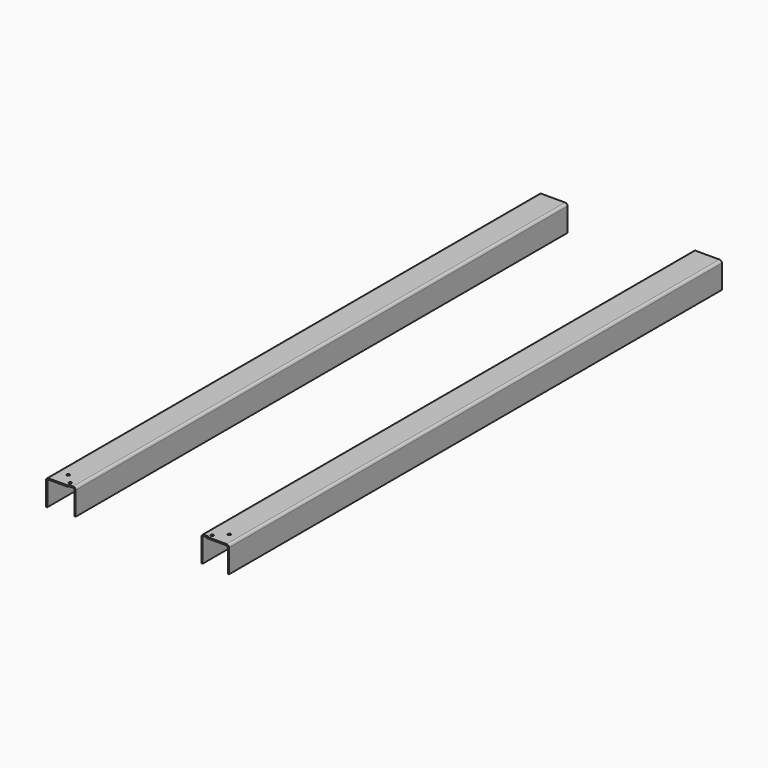
from build123d import *

# Parameters (mm, degrees)
F1_DEPTH = 1996
F3_W     = 4
F3_H     = 87
F4_DEPTH = 21.409
F6_DEPTH = 4


with BuildPart() as f1:
    # F0 (on Front) → F1 (new body)
    with BuildSketch(Plane.XZ):
        with BuildLine():
            Line((-46.25, 34), (-46.25, -42))
            Line((-46.25, -42), (-42.25, -42))
            Line((-42.25, -42), (-42.25, 34))
            ThreePointArc((-42.25, 34), (-41.078427, 36.828427), (-38.25, 38))
            Line((-38.25, 38), (38.25, 38))
            ThreePointArc((38.25, 38), (41.078427, 36.828427), (42.25, 34))
            Line((42.25, 34), (42.25, -42))
            Line((42.25, -42), (46.25, -42))
            Line((46.25, -42), (46.25, 34))
            ThreePointArc((46.25, 34), (43.906854, 39.656854), (38.25, 42))
            Line((38.25, 42), (-38.25, 42))
            ThreePointArc((-38.25, 42), (-43.906854, 39.656854), (-46.25, 34))
        make_face()
    extrude(amount=-F1_DEPTH)

    # F3 (on face) → F4 (cut)
    with BuildSketch(Plane(origin=(-46.25, 0, 0), x_dir=(0, -1, 0), z_dir=(-1, 0, 0))):
        with Locations((-2, 0.370724)):
            Rectangle(F3_W, F3_H)
    extrude(amount=-F4_DEPTH, mode=Mode.SUBTRACT)

    # F5 (on face) → F6 (cut)
    with BuildSketch(Plane(origin=(0, 0, 38), x_dir=(1, 0, 0), z_dir=(0, 0, -1))):
        with BuildLine():
            ThreePointArc((15.383453, -45.5), (10.883453, -41), (6.383453, -45.5))
            ThreePointArc((6.383453, -45.5), (10.883453, -50), (15.383453, -45.5))
        make_face()
        with BuildLine():
            Line((-20.116547, -14.5), (-20.116547, -10))
            ThreePointArc((-20.116547, -10), (-24.616547, -14.5), (-20.116547, -19))
            Line((-20.116547, -19), (-20.116547, -14.5))
        make_face()
        with BuildLine():
            ThreePointArc((-15.616547, -14.5), (-16.934566, -11.318019), (-20.116547, -10))
            Line((-20.116547, -10), (-20.116547, -14.5))
            Line((-20.116547, -14.5), (-20.116547, -19))
            ThreePointArc((-20.116547, -19), (-16.934566, -17.681981), (-15.616547, -14.5))
        make_face()
    extrude(amount=-F6_DEPTH, mode=Mode.SUBTRACT)


with BuildPart() as f8_1:
    # F8: instance of F1
    add(f1.part.mirror(Plane.YZ.offset(-250)))


solid = Compound([f1.part, f8_1.part])
